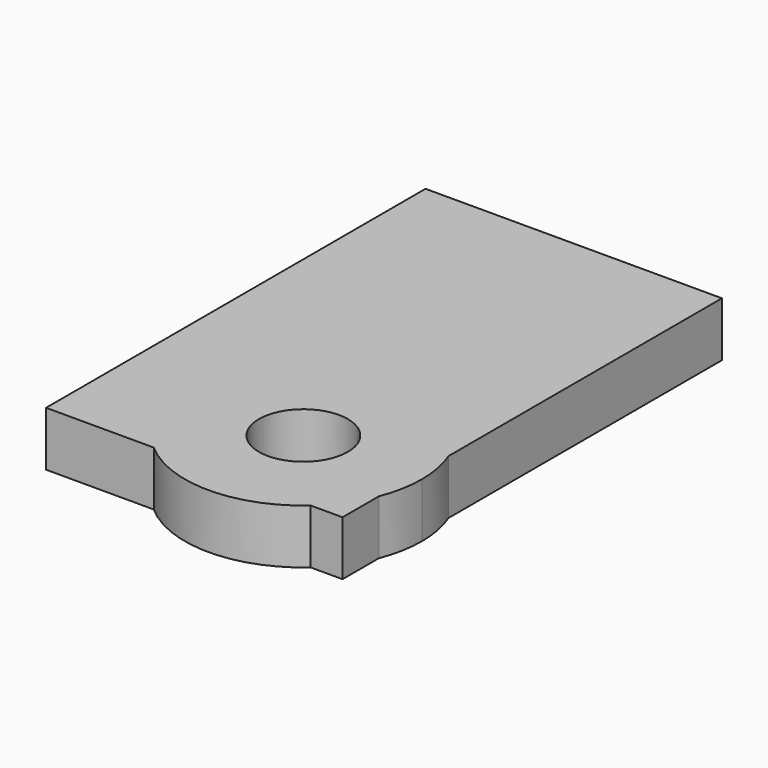
from build123d import *

# Parameters (mm, degrees)
F0_R     = 4.7625
F1_DEPTH = 5.842


with BuildPart() as f1:
    # F0 (on Top) → F1 (new body)
    with BuildSketch(Plane.XY):
        with BuildLine():
            Line((-3.4107395874, 0), (0, 0))
            Line((0, 0), (0, 4.8569941088))
            ThreePointArc((0, 4.8569941088), (-1.4176675311, 2.2264631473), (-3.4107395874, 0))
        make_face()
        with BuildLine():
            Line((-20.2112604126, 0), (-3.4107395874, 0))
            ThreePointArc((-3.4107395874, 0), (-1.4176675311, 2.2264631473), (0, 4.8569941088))
            Line((0, 4.8569941088), (0, 14.1930058912))
            ThreePointArc((0, 14.1930058912), (-19.1095368527, 19.9183324689), (-20.2112604126, 0))
        make_face()
        with Locations((-11.811, 9.525)):
            Circle(F0_R, mode=Mode.SUBTRACT)
        with BuildLine():
            Line((-31.75, 0), (-20.2112604126, 0))
            ThreePointArc((-20.2112604126, 0), (-19.1095368527, 19.9183324689), (0, 14.1930058912))
            Line((0, 14.1930058912), (0, 50.8))
            Line((0, 50.8), (-31.75, 50.8))
            Line((-31.75, 50.8), (-31.75, 0))
        make_face()
        with BuildLine():
            Line((-31.75, 0), (-20.2112604126, 0))
            ThreePointArc((-20.2112604126, 0), (-19.1095368527, 19.9183324689), (0, 14.1930058912))
            Line((0, 14.1930058912), (0, 50.8))
            Line((0, 50.8), (-31.75, 50.8))
            Line((-31.75, 50.8), (-31.75, 0))
        make_face()
        with BuildLine():
            Line((-31.75, 0), (-20.2112604126, 0))
            ThreePointArc((-20.2112604126, 0), (-19.1095368527, 19.9183324689), (0, 14.1930058912))
            Line((0, 14.1930058912), (0, 50.8))
            Line((0, 50.8), (-31.75, 50.8))
            Line((-31.75, 50.8), (-31.75, 0))
        make_face()
        with BuildLine():
            Line((-3.4107395874, 0), (0, 0))
            Line((0, 0), (0, 4.8569941088))
            ThreePointArc((0, 4.8569941088), (-1.4176675311, 2.2264631473), (-3.4107395874, 0))
        make_face()
        with BuildLine():
            Line((-20.2112604126, 0), (-3.4107395874, 0))
            ThreePointArc((-3.4107395874, 0), (-1.4176675311, 2.2264631473), (0, 4.8569941088))
            Line((0, 4.8569941088), (0, 14.1930058912))
            ThreePointArc((0, 14.1930058912), (-19.1095368527, 19.9183324689), (-20.2112604126, 0))
        make_face()
        with Locations((-11.811, 9.525)):
            Circle(F0_R, mode=Mode.SUBTRACT)
        with BuildLine():
            ThreePointArc((-20.2112604126, 0), (-11.811, -3.175), (-3.4107395874, 0))
            Line((-3.4107395874, 0), (-20.2112604126, 0))
        make_face()
        with BuildLine():
            Line((0, 14.1930058912), (0, 4.8569941088))
            ThreePointArc((0, 4.8569941088), (0.6647705173, 7.1490475594), (0.889, 9.525))
            ThreePointArc((0.889, 9.525), (0.6647705173, 11.9009524406), (0, 14.1930058912))
        make_face()
    extrude(amount=F1_DEPTH)


solid = f1.part
